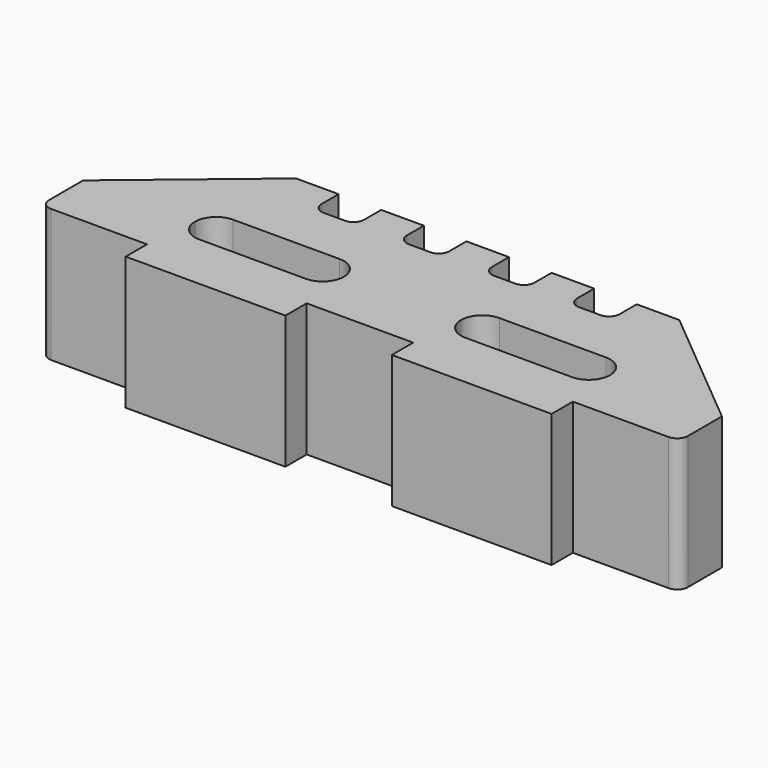
from build123d import *

# Parameters (mm, degrees)
F1_DEPTH = 25


with BuildPart() as f1:
    # F0 (on Top) → F1 (new body)
    with BuildSketch(Plane.XY):
        with BuildLine():
            ThreePointArc((-69.013481, -16.010753), (-68.427695, -17.424966), (-67.013481, -18.010753))
            Line((-67.013481, -18.010753), (-49.013481, -18.010753))
            Line((-49.013481, -18.010753), (-49.013481, -23.010753))
            Line((-49.013481, -23.010753), (-19.013481, -23.010753))
            Line((-19.013481, -23.010753), (-19.013481, -18.010753))
            Line((-19.013481, -18.010753), (0.986519, -18.010753))
            Line((0.986519, -18.010753), (0.986519, -23.010753))
            Line((0.986519, -23.010753), (30.986519, -23.010753))
            Line((30.986519, -23.010753), (30.986519, -18.010753))
            Line((30.986519, -18.010753), (48.986519, -18.010753))
            ThreePointArc((48.986519, -18.010753), (50.400732, -17.424966), (50.986519, -16.010753))
            Line((50.986519, -16.010753), (50.986519, -8.010753))
            Line((50.986519, -8.010753), (26.986519, 11.989247))
            Line((26.986519, 11.989247), (18.986519, 11.989247))
            Line((18.986519, 11.989247), (18.986519, 7.989247))
            ThreePointArc((18.986519, 7.989247), (18.400732, 6.575034), (16.986519, 5.989247))
            Line((16.986519, 5.989247), (12.986519, 5.989247))
            ThreePointArc((12.986519, 5.989247), (11.572305, 6.575034), (10.986519, 7.989247))
            Line((10.986519, 7.989247), (10.986519, 11.989247))
            Line((10.986519, 11.989247), (2.986519, 11.989247))
            Line((2.986519, 11.989247), (2.986519, 7.989247))
            ThreePointArc((2.986519, 7.989247), (2.400732, 6.575034), (0.986519, 5.989247))
            Line((0.986519, 5.989247), (-3.013481, 5.989247))
            ThreePointArc((-3.013481, 5.989247), (-4.427695, 6.575034), (-5.013481, 7.989247))
            Line((-5.013481, 7.989247), (-5.013481, 11.989247))
            Line((-5.013481, 11.989247), (-9.013481, 11.989247))
            Line((-9.013481, 11.989247), (-13.013481, 11.989247))
            Line((-13.013481, 11.989247), (-13.013481, 7.989247))
            ThreePointArc((-13.013481, 7.989247), (-13.599268, 6.575034), (-15.013481, 5.989247))
            Line((-15.013481, 5.989247), (-19.013481, 5.989247))
            ThreePointArc((-19.013481, 5.989247), (-20.427695, 6.575034), (-21.013481, 7.989247))
            Line((-21.013481, 7.989247), (-21.013481, 11.989247))
            Line((-21.013481, 11.989247), (-29.013481, 11.989247))
            Line((-29.013481, 11.989247), (-29.013481, 7.989247))
            ThreePointArc((-29.013481, 7.989247), (-29.599268, 6.575034), (-31.013481, 5.989247))
            Line((-31.013481, 5.989247), (-35.013481, 5.989247))
            ThreePointArc((-35.013481, 5.989247), (-36.427695, 6.575034), (-37.013481, 7.989247))
            Line((-37.013481, 7.989247), (-37.013481, 11.989247))
            Line((-37.013481, 11.989247), (-45.013481, 11.989247))
            Line((-45.013481, 11.989247), (-69.013481, -8.010753))
            Line((-69.013481, -8.010753), (-69.013481, -16.010753))
        make_face()
        with BuildLine():
            Line((-44.013481, -4.010753), (-24.013481, -4.010753))
            ThreePointArc((-24.013481, -4.010753), (-21.185054, -5.182326), (-20.013481, -8.010753))
            ThreePointArc((-20.013481, -8.010753), (-21.185054, -10.83918), (-24.013481, -12.010753))
            Line((-24.013481, -12.010753), (-44.013481, -12.010753))
            ThreePointArc((-44.013481, -12.010753), (-46.841908, -10.83918), (-48.013481, -8.010753))
            ThreePointArc((-48.013481, -8.010753), (-46.841908, -5.182326), (-44.013481, -4.010753))
        make_face(mode=Mode.SUBTRACT)
        with BuildLine():
            ThreePointArc((1.986519, -8.010753), (3.158092, -5.182326), (5.986519, -4.010753))
            Line((5.986519, -4.010753), (25.986519, -4.010753))
            ThreePointArc((25.986519, -4.010753), (28.814946, -5.182326), (29.986519, -8.010753))
            ThreePointArc((29.986519, -8.010753), (28.814946, -10.83918), (25.986519, -12.010753))
            Line((25.986519, -12.010753), (5.986519, -12.010753))
            ThreePointArc((5.986519, -12.010753), (3.158092, -10.83918), (1.986519, -8.010753))
        make_face(mode=Mode.SUBTRACT)
    extrude(amount=F1_DEPTH)


solid = f1.part
